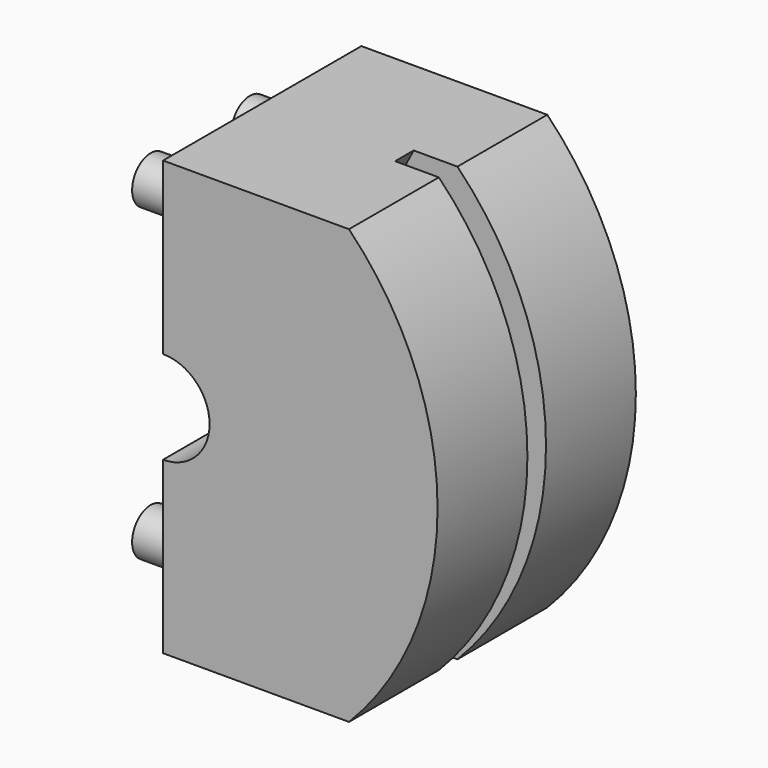
from build123d import *

# Parameters (mm, degrees)
F1_DEPTH = 25.4
F2_R     = 90.4875
F3_DEPTH = 2.38125
F4_R     = 4.7625
F5_DEPTH = 12.7


with BuildPart() as f1:
    # F0 (on Front) → F1 (new body, symmetric)
    with BuildSketch(Plane.XZ):
        with BuildLine():
            Line((0, -9.525), (0, -44.45))
            Line((0, -44.45), (38.1, -44.45))
            ThreePointArc((38.1, -44.45), (56.251929, 0), (38.1, 44.45))
            Line((38.1, 44.45), (0, 44.45))
            Line((0, 44.45), (0, 9.525))
            ThreePointArc((0, 9.525), (9.525, 0), (0, -9.525))
        make_face()
    extrude(amount=F1_DEPTH, both=True)

    # F2 (on Front) → F3 (cut, symmetric)
    with BuildSketch(Plane.XZ):
        with Locations((107.95, 0)):
            Circle(F2_R)
    extrude(amount=F3_DEPTH, both=True, mode=Mode.SUBTRACT)

    # F4 (on Right) → F5 (join)
    with BuildSketch(Plane.YZ):
        with Locations((12.7, 31.75)):
            Circle(F4_R)
        with Locations((-12.7, 31.75)):
            Circle(F4_R)
        with Locations((-12.7, -31.75)):
            Circle(F4_R)
        with Locations((12.7, -31.75)):
            Circle(F4_R)
    extrude(amount=-F5_DEPTH)


solid = f1.part
